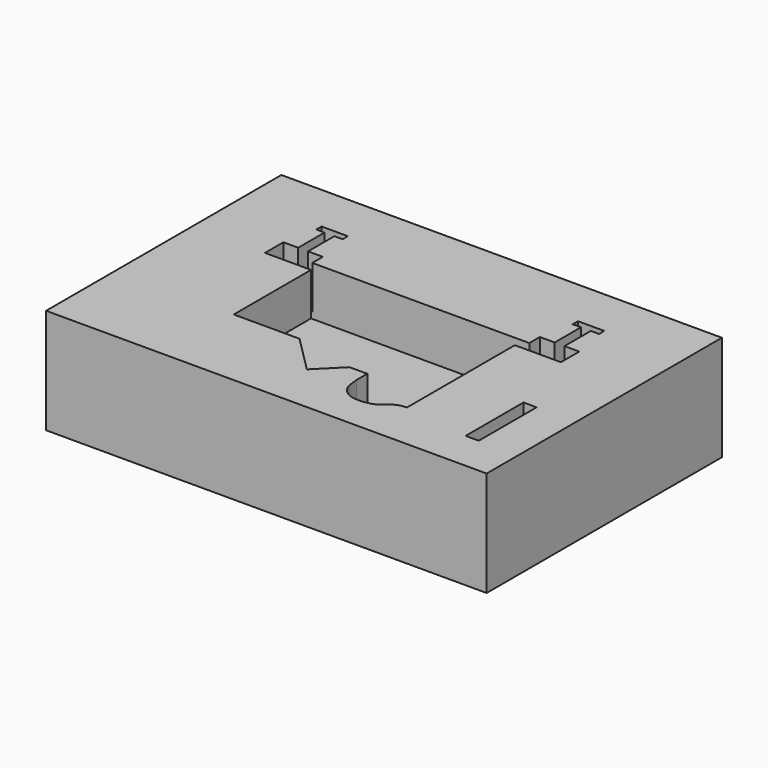
from build123d import *

# Parameters (mm, degrees)
F0_W     = 425.45
F0_H     = 283.972
F1_DEPTH = 101.6
F3_DEPTH = 41.275
F2_W     = 12.7
F2_H     = 69.85
F4_DEPTH = 44.45
F6_DEPTH = 12.7


with BuildPart() as f1:
    # F0 (on Top) → F1 (new body)
    with BuildSketch(Plane.XY):
        Rectangle(F0_W, F0_H)
    extrude(amount=F1_DEPTH)

    # F2 (on face) → F3 (cut)
    with BuildSketch(Plane.XY.offset(101.6)):
        with BuildLine():
            Line((104.775, 57.15), (104.775, 44.45))
            Line((104.775, 44.45), (-104.775, 44.45))
            Line((-104.775, 44.45), (-104.775, 57.15))
            Line((-104.775, 57.15), (-119.0752, 57.15))
            Line((-119.0752, 57.15), (-119.0752, 88.9))
            Line((-119.0752, 88.9), (-111.125, 88.9))
            Line((-111.125, 88.9), (-111.125, 95.25))
            Line((-111.125, 95.25), (-136.525, 95.25))
            Line((-136.525, 95.25), (-136.525, 88.9))
            Line((-136.525, 88.9), (-128.5748, 88.9))
            Line((-128.5748, 88.9), (-128.5748, 57.15))
            Line((-128.5748, 57.15), (-142.875, 57.15))
            Line((-142.875, 57.15), (-142.875, 34.925))
            Line((-142.875, 34.925), (-98.425, 34.925))
            Line((-98.425, 34.925), (-98.425, -58.3184))
            Line((-98.425, -58.3184), (-34.925, -58.3184))
            Line((-34.925, -58.3184), (0.6356468836, -93.881381557))
            Line((0.6356468836, -93.881381557), (23.5001294705, -71.0184))
            Line((23.5001294705, -71.0184), (40.6451294705, -71.0184))
            Line((40.6451294705, -71.0184), (40.6451294705, -83.7184))
            add(Edge.make_bspline(
                [(98.425, -95.25), (85.7012200048, -95.9646103609), (83.2737472807, -107.5863293593), (52.6561842817, -111.0807364969), (41.7633484197, -97.2699226213), (41.6022054851, -92.9006263614), (40.6451294705, -83.7184)],
                knots=[0, 0, 0, 0, 0.2714742221, 0.5613518333, 0.7763996456, 1, 1, 1, 1], degree=3))
            Line((98.425, -95.25), (98.425, 34.925))
            Line((98.425, 34.925), (142.875, 34.925))
            Line((142.875, 34.925), (142.875, 57.15))
            Line((142.875, 57.15), (128.5748, 57.15))
            Line((128.5748, 57.15), (128.5748, 88.9))
            Line((128.5748, 88.9), (136.525, 88.9))
            Line((136.525, 88.9), (136.525, 95.25))
            Line((136.525, 95.25), (111.125, 95.25))
            Line((111.125, 95.25), (111.125, 88.9))
            Line((111.125, 88.9), (119.0752, 88.9))
            Line((119.0752, 88.9), (119.0752, 57.15))
            Line((119.0752, 57.15), (104.775, 57.15))
        make_face()
    extrude(amount=-F3_DEPTH, mode=Mode.SUBTRACT)

    # F2 (on face) → F4 (cut)
    with BuildSketch(Plane.XY.offset(101.6)):
        with Locations((168.275, -68.961)):
            Rectangle(F2_W, F2_H)
    extrude(amount=-F4_DEPTH, mode=Mode.SUBTRACT)

    # F5 (on face) → F6 (cut)
    with BuildSketch(Plane.XY.offset(60.325)):
        Polygon((-142.875, 44.45), (-142.875, 34.925), (-98.425, 34.925), (98.425, 34.925), (142.875, 34.925), (142.875, 44.45), (104.775, 44.45), (-104.775, 44.45), align=None)
    extrude(amount=-F6_DEPTH, mode=Mode.SUBTRACT)


solid = f1.part
